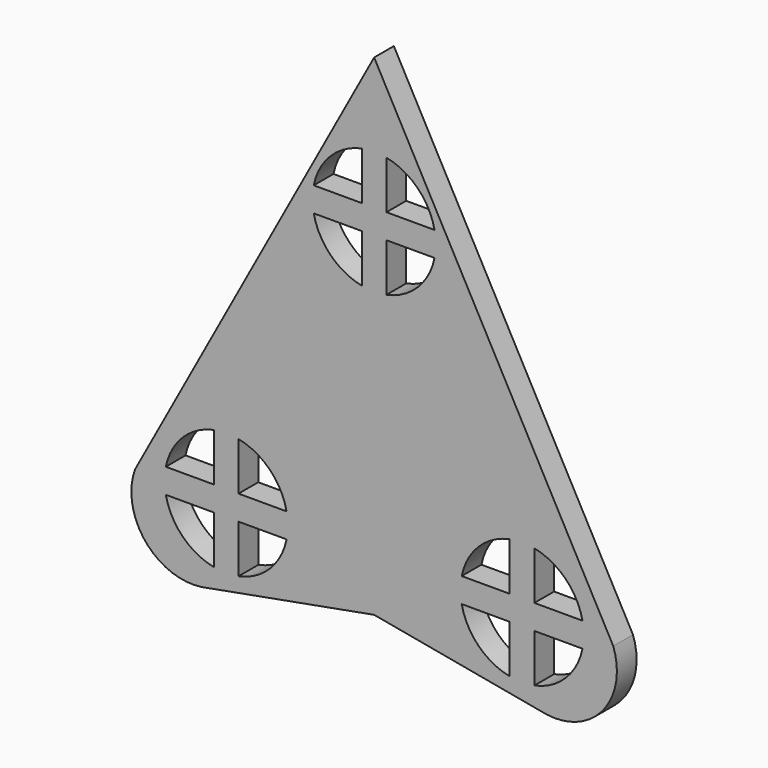
from build123d import *

# Parameters (mm, degrees)
F1_DEPTH = 10
F2_DEPTH = 10


with BuildPart() as f1:
    # F0 (on Front) → F1 (new body)
    with BuildSketch(Plane.XZ):
        with BuildLine():
            Line((96.984034, -60), (0, 118.62237))
            Line((0, 118.62237), (-96.984034, -60))
            ThreePointArc((-96.984034, -60), (-92.866177, -84.225408), (-70, -93.22347))
            Line((-70, -93.22347), (0, -80.390136))
            Line((0, -80.390136), (70, -93.22347))
            ThreePointArc((70, -93.22347), (92.866177, -84.225408), (96.984034, -60))
        make_face()
        with BuildLine():
            ThreePointArc((-35.505103, -55), (-35.126596, -57.487276), (-35, -60))
            ThreePointArc((-35, -60), (-35.126596, -62.512724), (-35.505103, -65))
            ThreePointArc((-35.505103, -65), (-42.32233, -77.67767), (-55, -84.494897))
            ThreePointArc((-55, -84.494897), (-60, -85), (-65, -84.494897))
            ThreePointArc((-65, -84.494897), (-77.67767, -77.67767), (-84.494897, -65))
            ThreePointArc((-84.494897, -65), (-85, -60), (-84.494897, -55))
            ThreePointArc((-84.494897, -55), (-77.67767, -42.32233), (-65, -35.505103))
            ThreePointArc((-65, -35.505103), (-60, -35), (-55, -35.505103))
            ThreePointArc((-55, -35.505103), (-42.32233, -42.32233), (-35.505103, -55))
        make_face(mode=Mode.SUBTRACT)
        with BuildLine():
            ThreePointArc((84.494897, -55), (84.873404, -57.487276), (85, -60))
            ThreePointArc((85, -60), (84.873404, -62.512724), (84.494897, -65))
            ThreePointArc((84.494897, -65), (77.67767, -77.67767), (65, -84.494897))
            ThreePointArc((65, -84.494897), (60, -85), (55, -84.494897))
            ThreePointArc((55, -84.494897), (42.32233, -77.67767), (35.505103, -65))
            ThreePointArc((35.505103, -65), (35, -60), (35.505103, -55))
            ThreePointArc((35.505103, -55), (42.32233, -42.32233), (55, -35.505103))
            ThreePointArc((55, -35.505103), (60, -35), (65, -35.505103))
            ThreePointArc((65, -35.505103), (77.67767, -42.32233), (84.494897, -55))
        make_face(mode=Mode.SUBTRACT)
        with BuildLine():
            ThreePointArc((24.494897, 65), (24.873404, 62.512724), (25, 60))
            ThreePointArc((25, 60), (24.873404, 57.487276), (24.494897, 55))
            ThreePointArc((24.494897, 55), (17.67767, 42.32233), (5, 35.505103))
            ThreePointArc((5, 35.505103), (0, 35), (-5, 35.505103))
            ThreePointArc((-5, 35.505103), (-17.67767, 42.32233), (-24.494897, 55))
            ThreePointArc((-24.494897, 55), (-25, 60), (-24.494897, 65))
            ThreePointArc((-24.494897, 65), (-17.67767, 77.67767), (-5, 84.494897))
            ThreePointArc((-5, 84.494897), (0, 85), (5, 84.494897))
            ThreePointArc((5, 84.494897), (17.67767, 77.67767), (24.494897, 65))
        make_face(mode=Mode.SUBTRACT)
    extrude(amount=F1_DEPTH)

    # F0 (on Front) → F2 (join)
    with BuildSketch(Plane.XZ):
        with BuildLine():
            ThreePointArc((-35.505103, -65), (-35.126596, -62.512724), (-35, -60))
            ThreePointArc((-35, -60), (-35.126596, -57.487276), (-35.505103, -55))
            Line((-35.505103, -55), (-55, -55))
            Line((-55, -55), (-55, -35.505103))
            ThreePointArc((-55, -35.505103), (-60, -35), (-65, -35.505103))
            Line((-65, -35.505103), (-65, -55))
            Line((-65, -55), (-84.494897, -55))
            ThreePointArc((-84.494897, -55), (-85, -60), (-84.494897, -65))
            Line((-84.494897, -65), (-65, -65))
            Line((-65, -65), (-65, -84.494897))
            ThreePointArc((-65, -84.494897), (-60, -85), (-55, -84.494897))
            Line((-55, -84.494897), (-55, -65))
            Line((-55, -65), (-35.505103, -65))
        make_face()
        with BuildLine():
            ThreePointArc((84.494897, -65), (84.873404, -62.512724), (85, -60))
            ThreePointArc((85, -60), (84.873404, -57.487276), (84.494897, -55))
            Line((84.494897, -55), (65, -55))
            Line((65, -55), (65, -35.505103))
            ThreePointArc((65, -35.505103), (60, -35), (55, -35.505103))
            Line((55, -35.505103), (55, -55))
            Line((55, -55), (35.505103, -55))
            ThreePointArc((35.505103, -55), (35, -60), (35.505103, -65))
            Line((35.505103, -65), (55, -65))
            Line((55, -65), (55, -84.494897))
            ThreePointArc((55, -84.494897), (60, -85), (65, -84.494897))
            Line((65, -84.494897), (65, -65))
            Line((65, -65), (84.494897, -65))
        make_face()
        with BuildLine():
            ThreePointArc((24.494897, 55), (24.873404, 57.487276), (25, 60))
            ThreePointArc((25, 60), (24.873404, 62.512724), (24.494897, 65))
            Line((24.494897, 65), (5, 65))
            Line((5, 65), (5, 84.494897))
            ThreePointArc((5, 84.494897), (0, 85), (-5, 84.494897))
            Line((-5, 84.494897), (-5, 65))
            Line((-5, 65), (-24.494897, 65))
            ThreePointArc((-24.494897, 65), (-25, 60), (-24.494897, 55))
            Line((-24.494897, 55), (-5, 55))
            Line((-5, 55), (-5, 35.505103))
            ThreePointArc((-5, 35.505103), (0, 35), (5, 35.505103))
            Line((5, 35.505103), (5, 55))
            Line((5, 55), (24.494897, 55))
        make_face()
    extrude(amount=F2_DEPTH)


solid = f1.part
